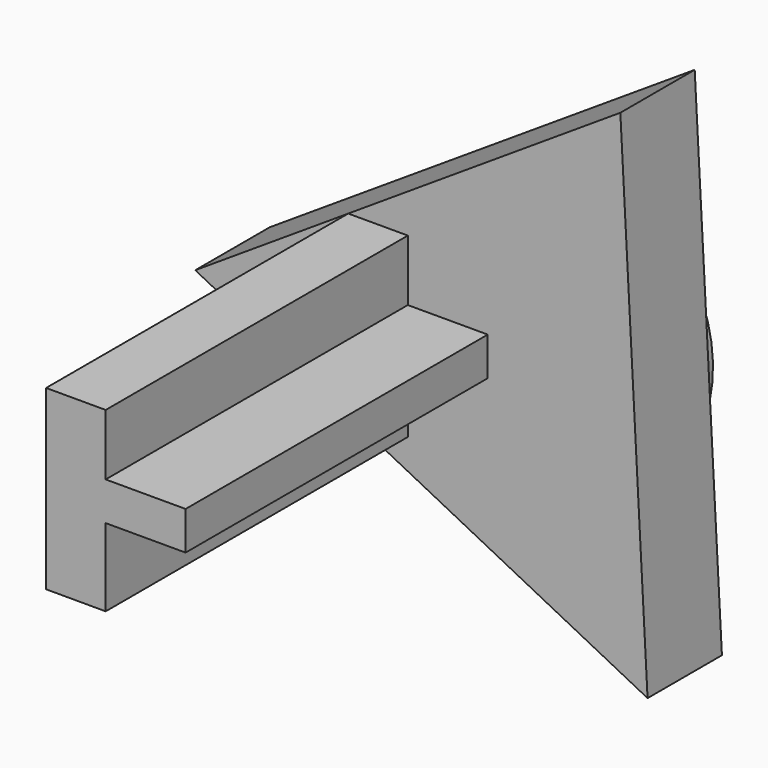
from build123d import *

# Parameters (mm, degrees)
F1_DEPTH = 48.26
F2_R     = 75.1298165033
F3_DEPTH = 4.064
F6_DEPTH = 1.524
F7_DEPTH = 1.524
F9_DEPTH = 196.088


with BuildPart() as f1:
    # F0 (on Front) → F1 (new body)
    with BuildSketch(Plane.XZ):
        with BuildLine():
            ThreePointArc((-34.4267364961, -67.788390466), (39.7682207439, -64.7993417143), (76.0293763472, 0))
            ThreePointArc((76.0293763472, 0), (76.0019863824, 2.0406209035), (75.9198362228, 4.0797715191))
            ThreePointArc((75.9198362228, 4.0797715191), (34.4267338783, 67.7883917955), (-41.4931009863, 63.7086229507))
            ThreePointArc((-41.4931009863, 63.7086229507), (-75.9198364409, -4.0797674593), (-34.4267364961, -67.788390466))
        make_face()
        with BuildLine():
            Line((-151.8396729123, -8.159534353), (-34.4267364961, -67.788390466))
            ThreePointArc((-34.4267364961, -67.788390466), (-75.9198364409, -4.0797674593), (-41.4931009863, 63.7086229507))
            Line((-41.4931009863, 63.7086229507), (-151.8396729123, -8.159534353))
        make_face()
        with BuildLine():
            ThreePointArc((-41.4931009863, 63.7086229507), (34.4267338783, 67.7883917955), (75.9198362228, 4.0797715191))
            Line((75.9198362228, 4.0797715191), (68.8534724234, 135.5767812208))
            Line((68.8534724234, 135.5767812208), (-41.4931009863, 63.7086229507))
        make_face()
        with BuildLine():
            ThreePointArc((75.9198362228, 4.0797715191), (76.0019863824, 2.0406209035), (76.0293763472, 0))
            ThreePointArc((76.0293763472, 0), (39.7682207439, -64.7993417143), (-34.4267364961, -67.788390466))
            Line((-34.4267364961, -67.788390466), (82.9862004889, -127.4172468679))
            Line((82.9862004889, -127.4172468679), (75.9198362228, 4.0797715191))
        make_face()
    extrude(amount=F1_DEPTH)

    # F2 (on face) → F3 (join)
    with BuildSketch(Plane(origin=(0, 0, 0), x_dir=(-1, 0, 0), z_dir=(0, 1, 0))):
        Circle(F2_R)
    extrude(amount=F3_DEPTH)

    # F4 (on face) + F5 (on face) → F6 (join)
    with BuildSketch(Plane(origin=(0, 4.064, 0), x_dir=(-1, 0, 0), z_dir=(0, 1, 0))):
        Polygon((21.1120117456, -12.1532529593), (36.5837341302, 65.6210311174), (-22.6685176048, 16.9392599994), (-37.0748307403, -65.3448257584), align=None)
    with BuildSketch(Plane(origin=(0, 4.064, 0), x_dir=(-1, 0, 0), z_dir=(0, 1, 0))):
        Polygon((-11.7188123986, -16.5306981653), (21.1120117456, -11.42368), (12.0517571455, 16.7637839913), (-23.2249982655, 16.7637839913), align=None)
    extrude(amount=F6_DEPTH)

    # F5 (on face) + F6_face (on face) → F7 (join)
    with BuildSketch(Plane(origin=(0, 4.064, 0), x_dir=(-1, 0, 0), z_dir=(0, 1, 0))):
        Polygon((-11.7188123986, -16.5306981653), (21.1120117456, -11.42368), (12.0517571455, 16.7637839913), (-23.2249982655, 16.7637839913), align=None)
    with BuildSketch(Plane(origin=(0.8615921518, 5.588, 1.1811459069), x_dir=(-1, 0, 0), z_dir=(0, 1, 0))):
        Polygon((-36.2132385885, -66.5259716654), (21.9736038974, -13.3343988662), (37.445326282, 64.4398852105), (-21.806925453, 15.7581140924), (-21.8376478253, 15.5826380844), (-22.3634061137, 15.5826380844), (-22.0144394867, 14.5728627107), align=None)
    extrude(amount=F7_DEPTH)

    # F8 (on face) → F9 (join)
    with BuildSketch(Plane.XZ.offset(48.26)):
        Polygon((-72.4382175174, 43.5542269979), (-72.4382175174, -48.4840343904), (-41.4931002444, -48.503398313), (-41.4931002444, -8.159534353), (0, -8.159534353), (0, 11.7922946811), (-41.4931002444, 11.7922946811), (-41.4931002444, 43.5542269979), align=None)
    extrude(amount=F9_DEPTH)


solid = f1.part
